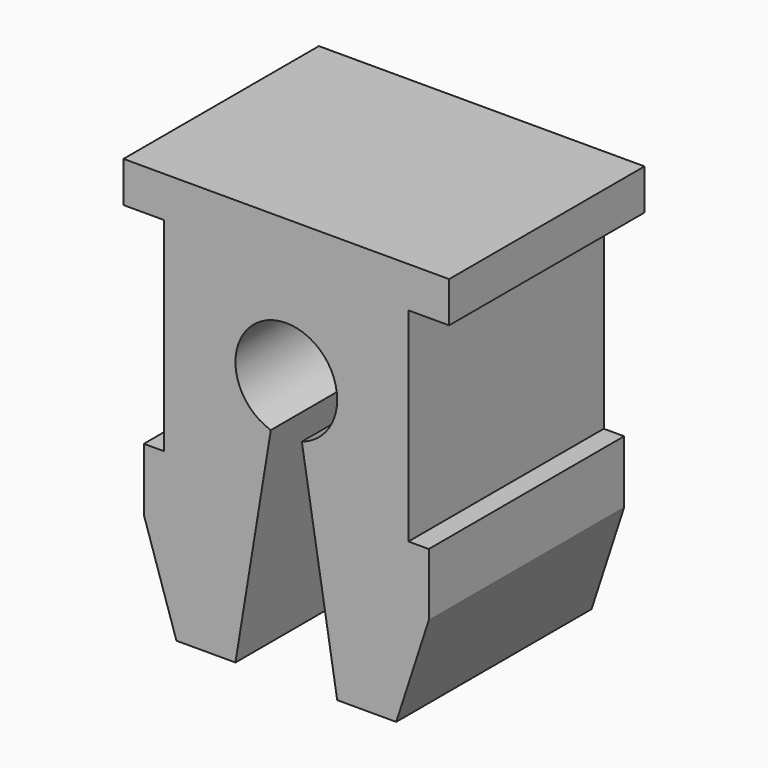
from build123d import *

# Parameters (mm, degrees)
F1_DEPTH = 6


with BuildPart() as f1:
    # F0 (on Front) → F1 (new body)
    with BuildSketch(Plane.XZ):
        with BuildLine():
            Line((4, 3.5), (-4, 3.5))
            Line((-4, 3.5), (-4, 2.5))
            Line((-4, 2.5), (-3, 2.5))
            Line((-3, 2.5), (-3, -2.5))
            Line((-3, -2.5), (-3.5, -2.5))
            Line((-3.5, -2.5), (-3.5, -4.038462))
            Line((-3.5, -4.038462), (-2.7, -6.5))
            Line((-2.7, -6.5), (-1.25, -6.5))
            Line((-1.25, -6.5), (-0.381107, -1.190486))
            ThreePointArc((-0.381107, -1.190486), (-0.736925, 1.009674), (1.25, 0))
            ThreePointArc((1.25, 0), (1.009674, -0.736925), (0.381107, -1.190486))
            Line((0.381107, -1.190486), (1.25, -6.5))
            Line((1.25, -6.5), (2.7, -6.5))
            Line((2.7, -6.5), (3.5, -4.038462))
            Line((3.5, -4.038462), (3.5, -2.5))
            Line((3.5, -2.5), (3, -2.5))
            Line((3, -2.5), (3, 2.5))
            Line((3, 2.5), (4, 2.5))
            Line((4, 2.5), (4, 3.5))
        make_face()
    extrude(amount=F1_DEPTH)


solid = f1.part
